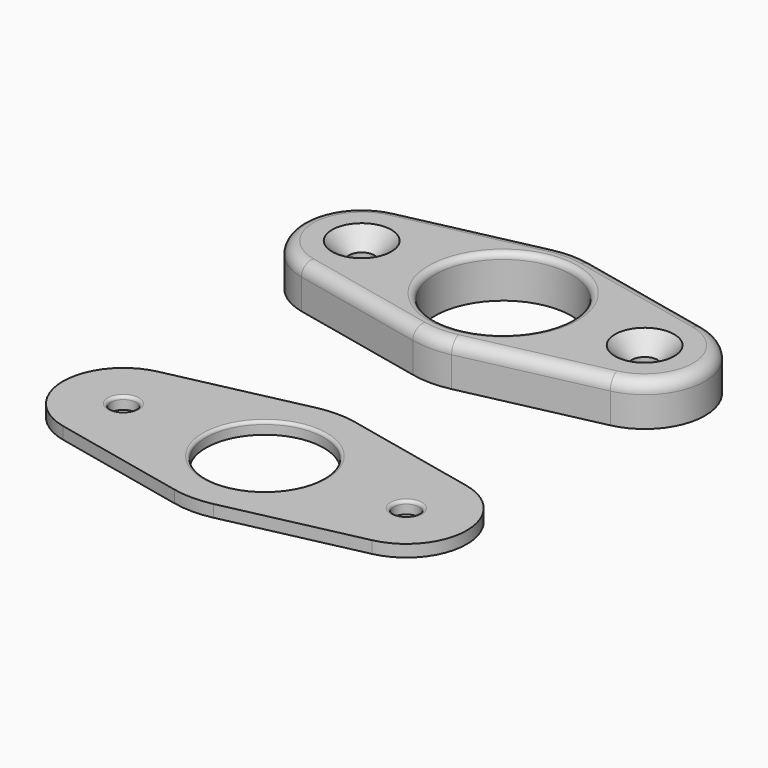
from build123d import *

# Parameters (mm, degrees)
F0_R     = 2.1
F0_R_2   = 11.3
F1_DEPTH = 7
F2_R     = 1
F3_R     = 2
F4_SIZE  = 2.8
F5_R     = 2.1
F5_R_2   = 9.75
F6_DEPTH = 2
F7_R     = 0.5


with BuildPart() as f1:
    # F0 (on Top) → F1 (new body)
    with BuildSketch(Plane.XY):
        with BuildLine():
            Line((-25.536752, -9.769048), (-3.205128, -14.653571))
            ThreePointArc((-3.205128, -14.653571), (0, -15), (3.205128, -14.653571))
            Line((3.205128, -14.653571), (25.536752, -9.769048))
            ThreePointArc((25.536752, -9.769048), (33.4, 0), (25.536752, 9.769048))
            Line((25.536752, 9.769048), (3.205128, 14.653571))
            ThreePointArc((3.205128, 14.653571), (0, 15), (-3.205128, 14.653571))
            Line((-3.205128, 14.653571), (-25.536752, 9.769048))
            ThreePointArc((-25.536752, 9.769048), (-33.4, 0), (-25.536752, -9.769048))
        make_face()
        with Locations((-23.4, 0)):
            Circle(F0_R, mode=Mode.SUBTRACT)
        Circle(F0_R_2, mode=Mode.SUBTRACT)
        with Locations((23.4, 0)):
            Circle(F0_R, mode=Mode.SUBTRACT)
    extrude(amount=F1_DEPTH)

    # F2
    f2_edges = [f1.edges().sort_by_distance(p)[0] for p in [
        (-11.3, 0, 7),
    ]]
    fillet(f2_edges, radius=F2_R)

    # F3
    f3_edges = [f1.edges().sort_by_distance(p)[0] for p in [
        (-33.4, 0, 7),
        (-14.37094, -12.211309, 7),
        (-14.37094, 12.211309, 7),
        (0, -15, 7),
        (14.37094, -12.211309, 7),
        (33.4, 0, 7),
        (14.37094, 12.211309, 7),
        (0, 15, 7),
    ]]
    fillet(f3_edges, radius=F3_R)

    # F4
    f4_edges = [f1.edges().sort_by_distance(p)[0] for p in [
        (-25.5, 0, 7),
        (21.3, 0, 7),
    ]]
    chamfer(f4_edges, length=F4_SIZE)


with BuildPart() as f6:
    # F5 (on Top) → F6 (new body)
    with BuildSketch(Plane.XY):
        with BuildLine():
            Line((-27.106382, -57.078621), (-4.774758, -61.963145))
            ThreePointArc((-4.774758, -61.963145), (-1.56963, -62.309574), (1.635498, -61.963145))
            Line((1.635498, -61.963145), (23.967122, -57.078621))
            ThreePointArc((23.967122, -57.078621), (31.83037, -47.309574), (23.967122, -37.540526))
            Line((23.967122, -37.540526), (1.635498, -32.656002))
            ThreePointArc((1.635498, -32.656002), (-1.56963, -32.309574), (-4.774758, -32.656002))
            Line((-4.774758, -32.656002), (-27.106382, -37.540526))
            ThreePointArc((-27.106382, -37.540526), (-34.96963, -47.309574), (-27.106382, -57.078621))
        make_face()
        with Locations((-24.96963, -47.309574)):
            Circle(F5_R, mode=Mode.SUBTRACT)
        with Locations((-1.56963, -47.309574)):
            Circle(F5_R_2, mode=Mode.SUBTRACT)
        with Locations((21.83037, -47.309574)):
            Circle(F5_R, mode=Mode.SUBTRACT)
    extrude(amount=F6_DEPTH)

    # F7
    f7_edges = [f6.edges().sort_by_distance(p)[0] for p in [
        (-27.06963, -47.309574, 2),
        (-11.31963, -47.309574, 2),
        (19.73037, -47.309574, 2),
    ]]
    fillet(f7_edges, radius=F7_R)


solid = Compound([f1.part, f6.part])
